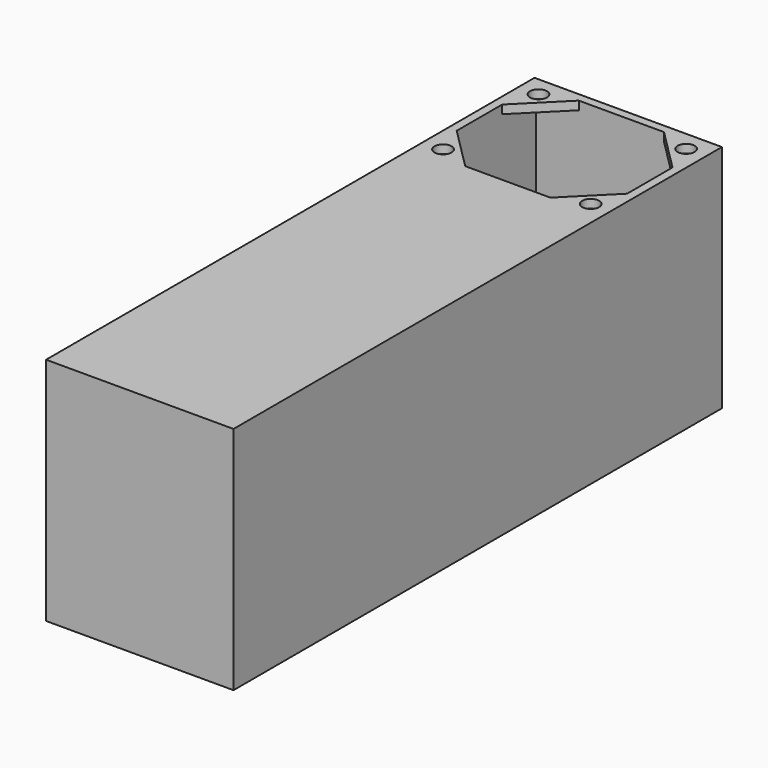
from build123d import *

# Parameters (mm, degrees)
STRUCTURESKETCH_W      = 66
STRUCTURESKETCH_H      = 215
MAINSTRUCTURE_DEPTH    = 81
OBJ1           = 3
CENTERPOCKET_DEPTH     = 81
OBJ2       = 60
OBJ3       = 50
OBJ4 = 78


with BuildPart() as part:
    # StructureSketch → MainStructure (new body)
    with BuildSketch(Plane.XY):
        Rectangle(STRUCTURESKETCH_W, STRUCTURESKETCH_H)
    extrude(amount=MAINSTRUCTURE_DEPTH)

    with BuildSketch(Plane(origin=(0, 79.5, 0), x_dir=(1, 0, 0), z_dir=(0, 0, 1))):
        with Locations((-26, 21)):
            Circle(OBJ1)
        with Locations((26, 21)):
            Circle(OBJ1)
        with Locations((26, -21)):
            Circle(OBJ1)
        with Locations((-26, -21)):
            Circle(OBJ1)
        Polygon((-15, 25), (15, 25), (30, 10), (30, -10), (15, -25), (-15, -25), (-30, -10), (-30, 10), align=None)
    extrude(amount=CENTERPOCKET_DEPTH, mode=Mode.SUBTRACT)

    with BuildSketch(Plane(origin=(0, 79.5, 0), x_dir=(1, 0, 0), z_dir=(0, 0, 1))):
        Rectangle(OBJ2, OBJ3)
    extrude(amount=OBJ4, mode=Mode.SUBTRACT)


solid = part.part
